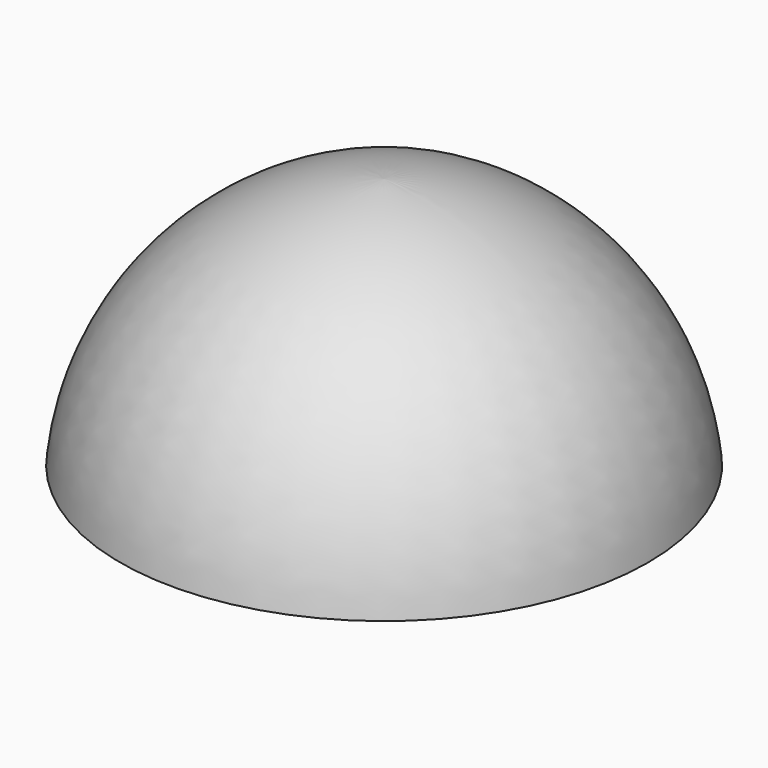
from build123d import *


with BuildPart() as f1:
    # F0 (on Front) → F1 (revolve)
    with BuildSketch(Plane.XZ):
        with BuildLine():
            ThreePointArc((17.829267, 11.29878), (12.06452, 23.102319), (0, 28.29878))
            Line((0, 28.29878), (0, 11.29878))
            Line((0, 11.29878), (17.829267, 11.29878))
        make_face()
    revolve(axis=Axis((0, 0, 19.79878), (0, 0, -1)))


solid = f1.part
